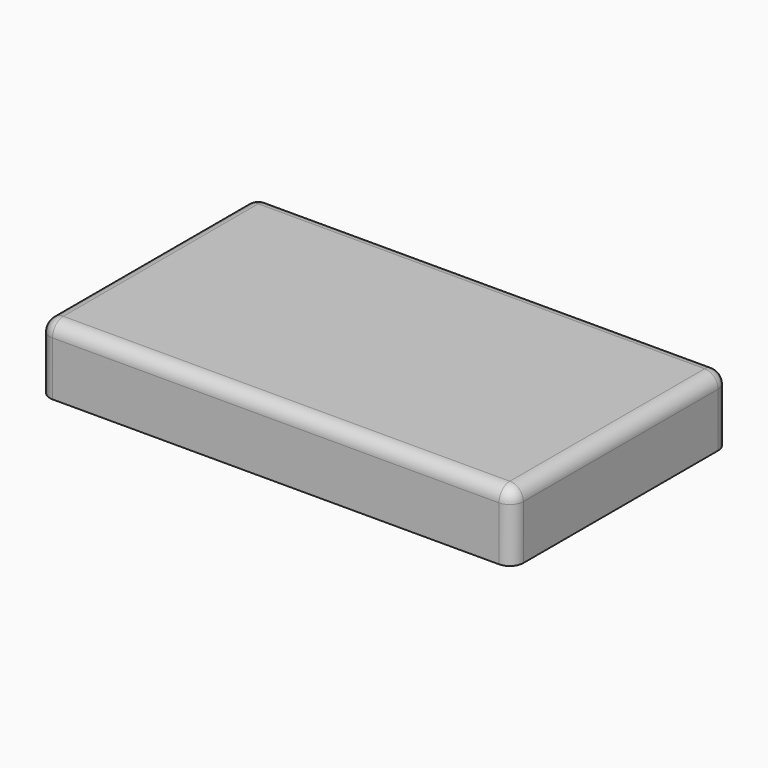
from build123d import *

# Parameters (mm, degrees)
F0_W     = 88.9
F0_H     = 50.8
F1_DEPTH = 12.7
F2_R     = 2.54
F3_T     = -2


with BuildPart() as f1:
    # F0 (on Top) → F1 (new body)
    with BuildSketch(Plane.XY):
        Rectangle(F0_W, F0_H)
    extrude(amount=F1_DEPTH)

    # F2
    f2_edges = [f1.edges().sort_by_distance(p)[0] for p in [
        (0, -25.4, 12.7),
        (0, 25.4, 12.7),
        (44.45, 0, 12.7),
        (-44.45, 0, 12.7),
        (-44.45, 25.4, 6.35),
        (-44.45, -25.4, 6.35),
        (44.45, -25.4, 6.35),
        (44.45, 25.4, 6.35),
    ]]
    fillet(f2_edges, radius=F2_R)

    # F3
    f3_openings = [f1.faces().sort_by_distance(p)[0] for p in [
        (0, 0, 0),
    ]]
    offset(amount=F3_T, openings=f3_openings)


solid = f1.part
